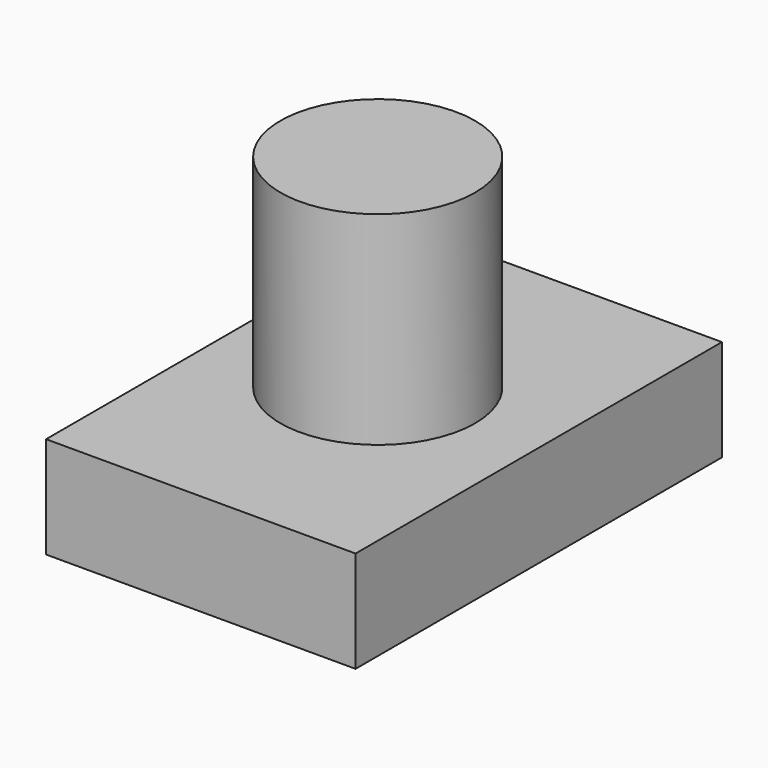
from build123d import *

# Parameters (mm, degrees)
F0_W     = 38.70645
F0_H     = 57.275925
F1_DEPTH = 12.7
F2_R     = 12.174497
F3_DEPTH = 25.4


with BuildPart() as f1:
    # F0 (on Top) → F1 (new body)
    with BuildSketch(Plane.XY):
        with Locations((-25.682018, 28.637963)):
            Rectangle(F0_W, F0_H)
    extrude(amount=-F1_DEPTH)

    # F2 (on face) → F3 (join)
    with BuildSketch(Plane.XY):
        with Locations((-26.59025, 28.795289)):
            Circle(F2_R)
    extrude(amount=F3_DEPTH)


solid = f1.part
